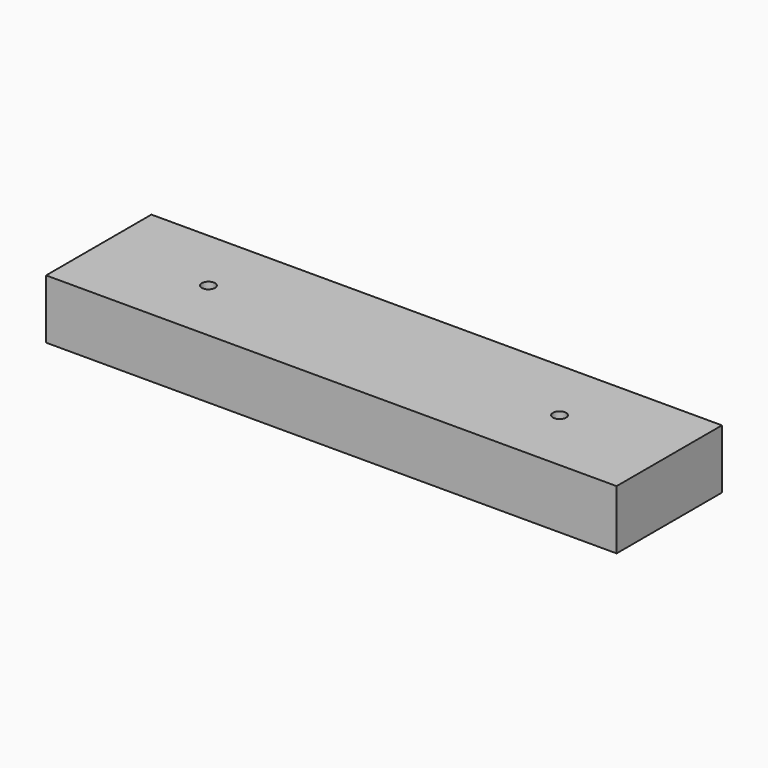
from build123d import *

# Parameters (mm, degrees)
SKETCH_W  = 130
SKETCH_H  = 30
SKETCH_R  = 1.5
PAD_DEPTH = 13.5


with BuildPart() as part:
    # Sketch → Pad (new body)
    with BuildSketch(Plane.XY):
        with Locations((65, 15)):
            Rectangle(SKETCH_W, SKETCH_H)
        with Locations((25, 15)):
            Circle(SKETCH_R, mode=Mode.SUBTRACT)
        with Locations((105, 15)):
            Circle(SKETCH_R, mode=Mode.SUBTRACT)
    extrude(amount=PAD_DEPTH)


solid = part.part
